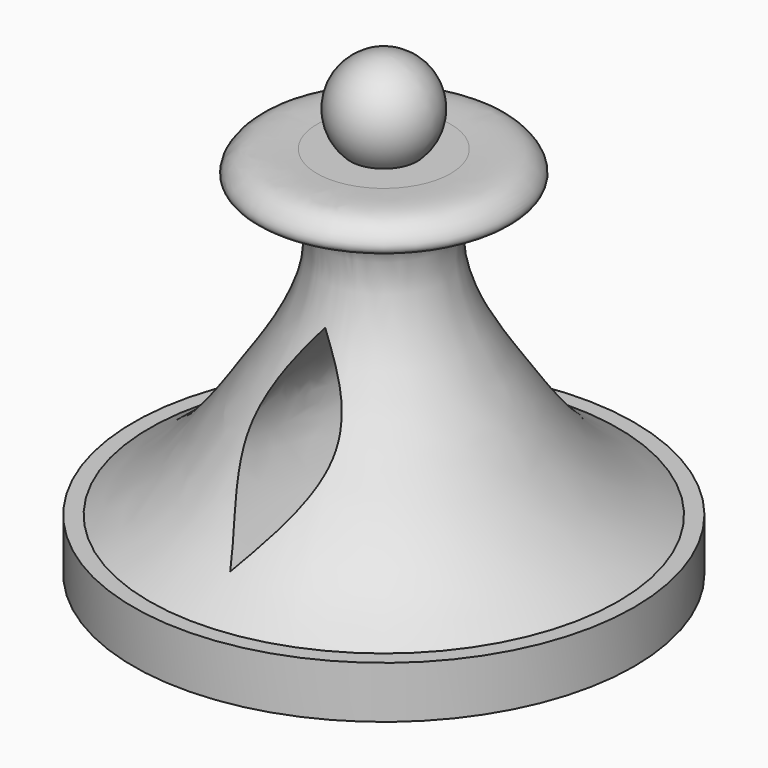
from build123d import *

# Parameters (mm, degrees)
F3_DEPTH      = 30.0639232079
F3_DEPTH_BACK = 30.0639232079


with BuildPart() as f1:
    # F0 (on Front) → F1 (revolve)
    with BuildSketch(Plane.XZ):
        with BuildLine():
            Line((0, 55.0550706685), (0, 0))
            Line((0, 0), (30.0629232079, 0))
            Line((30.0629232079, 0), (30.0629232079, 6.2461961061))
            Line((30.0629232079, 6.2461961061), (28.1515177339, 6.2461961061))
            add(Edge.make_bspline(
                [(28.1515177339, 6.2461961061), (20.8514027433, 10.2224548639), (15.5688193856, 18.5466500971), (7.6461738794, 29.5347998868), (6.7391293859, 40.9108059528), (16.6325883831, 40.8602065067), (14.1007108995, 45.2241793388), (11.379963248, 45.0847172222), (8.0235246569, 44.9291057885)],
                knots=[0, 0, 0, 0, 0.2445178736, 0.4524899116, 0.6209734583, 0.7676825545, 0.8568521555, 1, 1, 1, 1], degree=3))
            Line((8.0235246569, 44.9291057885), (4.0333306828, 44.9291057885))
            ThreePointArc((4.0333306828, 44.9291057885), (5.4498376386, 51.3595746191), (0, 55.0550706685))
        make_face()
    revolve(axis=Axis((0, 0, 27.5275353342), (0, 0, -1)))

    # F2 (on Front) → F3 (cut, two sides)
    with BuildSketch(Plane.XZ) as f3_sk:
        with BuildLine():
            Line((0, 9.6192849411), (0, 29.6192849411))
            add(Edge.make_bspline(
                [(0, 29.6192849411), (-2.5065675998, 26.3852821126), (-7.4998516638, 19.5617489866), (-2.4937290726, 12.9683596788), (0, 9.6192849411)],
                knots=[0, 0, 0, 0, 0.5, 1, 1, 1, 1], degree=3))
        make_face()
        with BuildLine():
            add(Edge.make_bspline(
                [(0, 29.6192849411), (2.5065675998, 26.3852821126), (7.4998516638, 19.5617489866), (2.4937290726, 12.9683596788), (0, 9.6192849411)],
                knots=[0, 0, 0, 0, 0.5, 1, 1, 1, 1], degree=3))
            Line((0, 29.6192849411), (0, 9.6192849411))
        make_face()
    extrude(amount=-F3_DEPTH, mode=Mode.SUBTRACT)
    extrude(f3_sk.sketch, amount=F3_DEPTH_BACK, mode=Mode.SUBTRACT)


solid = f1.part
